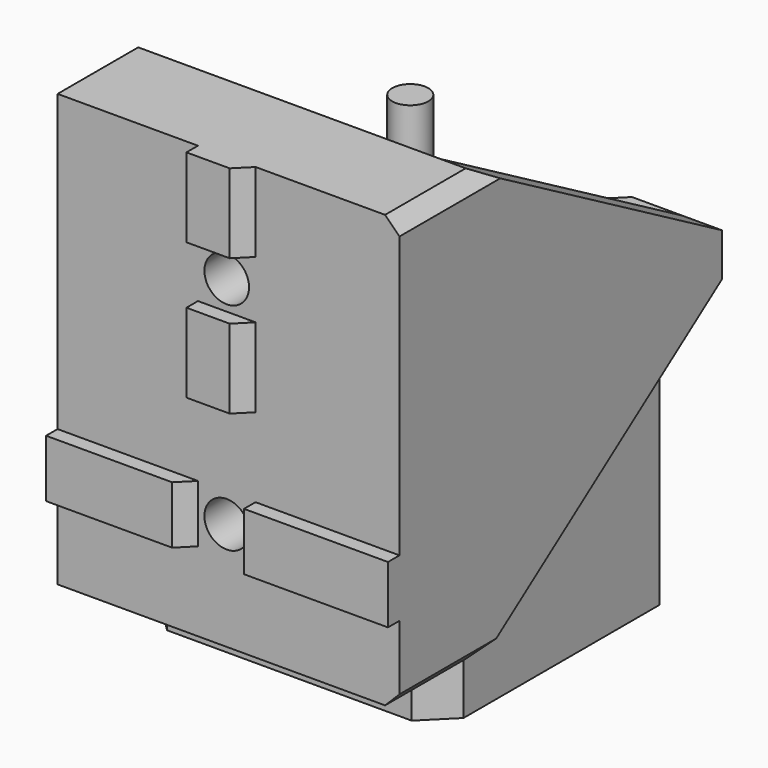
from build123d import *

# Parameters (mm, degrees)
SKETCH_W        = 42
SKETCH_H        = 42
PAD_DEPTH       = 40
CHAMFER_SIZE    = 4
SKETCH001_R     = 11
PAD001_DEPTH    = 2.5
SKETCH002_R     = 2.5
PAD002_DEPTH    = 20
SKETCH003_R     = 1.5
POCKET_DEPTH    = 7
SKETCH004_R     = 4
SKETCH004_R_2   = 1.6
PAD003_DEPTH    = 6
SKETCH005_W     = 47.5
SKETCH005_H     = 14
PAD004_DEPTH    = 24
SKETCH006_W     = 47.5
SKETCH006_H     = 14
PAD005_DEPTH    = 30
PAD006_DEPTH    = 5.5
SKETCH008_W     = 8
SKETCH008_H     = 30
PAD007_DEPTH    = 2
SKETCH009_W     = 47.5
SKETCH009_H     = 8
PAD008_DEPTH    = 2
SKETCH010_R     = 3.1
POCKET001_DEPTH = 58.001
SKETCH011_W     = 8
SKETCH011_H     = 8
POCKET002_DEPTH = 2
CHAMFER001_SIZE = 2
CHAMFER002_SIZE = 3
CHAMFER003_SIZE = 1.99
SKETCH012_R     = 5.5
POCKET003_DEPTH = 3.5


with BuildPart() as motor:
    # Sketch → Pad (new body)
    with BuildSketch(Plane.XY):
        Rectangle(SKETCH_W, SKETCH_H)
    extrude(amount=PAD_DEPTH)

    # Chamfer
    chamfer_edges = [motor.edges().sort_by_distance(p)[0] for p in [
        (21, -21, 20),
        (-21, -21, 20),
        (-21, 21, 20),
        (21, 21, 20),
    ]]
    chamfer(chamfer_edges, length=CHAMFER_SIZE)

    # Sketch001 (on Face5 of Chamfer) → Pad001 (join)
    with BuildSketch(Plane.XY.offset(40)):
        Circle(SKETCH001_R)
    extrude(amount=PAD001_DEPTH)

    # Sketch002 (on Face12 of Pad001) → Pad002 (join)
    with BuildSketch(Plane.XY.offset(42.5)):
        Circle(SKETCH002_R)
    extrude(amount=PAD002_DEPTH)

    # Sketch003 (on Face5 of Pad002) → Pocket (cut)
    with BuildSketch(Plane.XY.offset(40)):
        with Locations((-15.5, 15.350468)):
            Circle(SKETCH003_R)
        with Locations((15.5, 15.350468)):
            Circle(SKETCH003_R)
        with Locations((15.5, -15.350468)):
            Circle(SKETCH003_R)
        with Locations((-15.5, -15.350468)):
            Circle(SKETCH003_R)
    extrude(amount=-POCKET_DEPTH, mode=Mode.SUBTRACT)


with BuildPart() as y_motor:
    # Sketch004 (on Face1 of ShapeBinder) → Pad003 (new body)
    with BuildSketch(Plane.XY.offset(40)):
        Polygon((11, 21), (26.5, 21), (26.5, -35), (-21, -35), (-21, -11), (11, -11), align=None)
        with Locations((16.5, 0)):
            Circle(SKETCH004_R, mode=Mode.SUBTRACT)
        with Locations((15.5, 15.350468)):
            Circle(SKETCH004_R_2, mode=Mode.SUBTRACT)
        with Locations((-15.5, -15.350468)):
            Circle(SKETCH004_R_2, mode=Mode.SUBTRACT)
        with Locations((15.5, -15.350468)):
            Circle(SKETCH004_R_2, mode=Mode.SUBTRACT)
    extrude(amount=PAD003_DEPTH)

    # Sketch005 (on Face12 of Pad003) → Pad004 (join)
    with BuildSketch(Plane.XY.offset(46)):
        with Locations((2.75, -28)):
            Rectangle(SKETCH005_W, SKETCH005_H)
    extrude(amount=PAD004_DEPTH)

    # Sketch006 (on Face4 of Pad004) → Pad005 (join)
    with BuildSketch(Plane(origin=(0, 0, 40), x_dir=(1, 0, 0), z_dir=(0, 0, -1))):
        with Locations((2.75, 28)):
            Rectangle(SKETCH006_W, SKETCH006_H)
    extrude(amount=PAD005_DEPTH)

    # Sketch007 (on Face14 of Pad005) → Pad006 (join)
    with BuildSketch(Plane.YZ.offset(26.5)):
        Polygon((-21, 70), (21, 46), (-21, 46), align=None)
        Polygon((-21, 40), (21, 40), (-21, 10), align=None)
    extrude(amount=-PAD006_DEPTH)

    # Sketch008 (on Face18 of Pad006) → Pad007 (join)
    with BuildSketch(Plane.XZ.offset(35)):
        with Locations((2.5, 55)):
            Rectangle(SKETCH008_W, SKETCH008_H)
    extrude(amount=PAD007_DEPTH)

    # Sketch009 (on Face19 of Pad007) → Pad008 (join)
    with BuildSketch(Plane.XZ.offset(35)):
        with Locations((2.75, 25)):
            Rectangle(SKETCH009_W, SKETCH009_H)
    extrude(amount=PAD008_DEPTH)

    # Sketch010 (on Face27 of Pad008) → Pocket001 (cut, through all)
    with BuildSketch(Plane.XZ.offset(37)):
        with Locations((2.5, 25)):
            Circle(SKETCH010_R)
        with Locations((2.5, 55)):
            Circle(SKETCH010_R)
    extrude(amount=-POCKET001_DEPTH, mode=Mode.SUBTRACT)

    # Sketch011 (on Face29 of Pocket001) → Pocket002 (cut)
    with BuildSketch(Plane.XZ.offset(37)):
        with Locations((2.5, 25)):
            Rectangle(SKETCH011_W, SKETCH011_H)
        with Locations((2.5, 55)):
            Rectangle(SKETCH011_W, SKETCH011_H)
    extrude(amount=-POCKET002_DEPTH, mode=Mode.SUBTRACT)

    # Chamfer001
    chamfer001_edges = [y_motor.edges().sort_by_distance(p)[0] for p in [
        (26.5, -28, 10),
        (26.5, -28, 70),
    ]]
    chamfer(chamfer001_edges, length=CHAMFER001_SIZE)

    # Chamfer002
    chamfer002_edges = [y_motor.edges().sort_by_distance(p)[0] for p in [
        (-21, -11, 43),
        (11, 21, 43),
    ]]
    chamfer(chamfer002_edges, length=CHAMFER002_SIZE)

    # Chamfer003
    chamfer003_edges = [y_motor.edges().sort_by_distance(p)[0] for p in [
        (-1.5, -37, 25),
        (6.5, -37, 45.5),
        (6.5, -37, 64.5),
    ]]
    chamfer(chamfer003_edges, length=CHAMFER003_SIZE)

    # Sketch012 (on Face22 of Chamfer003) → Pocket003 (cut)
    with BuildSketch(Plane(origin=(0, -21, 0), x_dir=(-1, 0, 0), z_dir=(0, 1, 0))):
        with Locations((-2.5, 55)):
            Circle(SKETCH012_R)
        with Locations((-2.5, 25)):
            Circle(SKETCH012_R)
    extrude(amount=-POCKET003_DEPTH, mode=Mode.SUBTRACT)


solid = Compound([motor.part, y_motor.part])
